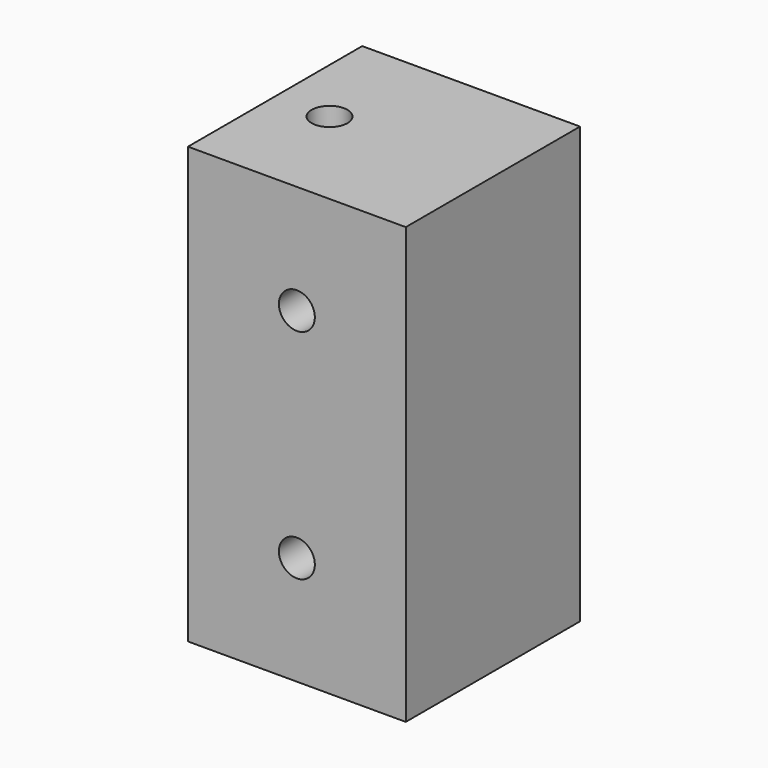
from build123d import *

# Parameters (mm, degrees)
SKETCH_W       = 20
SKETCH_H       = 20
PAD_DEPTH      = 40
SKETCH001_R    = 1.65
HOLE_DEPTH     = 10
HOLE_TIPS_R    = 1.65
SKETCH002_R    = 1.65
HOLE001_DEPTH  = 12
HOLE001_TIPS_R = 1.65


with BuildPart() as part:
    # Sketch → Pad (new body)
    with BuildSketch(Plane.XY):
        with Locations((75, 10)):
            Rectangle(SKETCH_W, SKETCH_H)
    extrude(amount=PAD_DEPTH)

    # Sketch001 (on Face1 of Pad) → Hole (cut)
    with BuildSketch(Plane.XZ):
        with Locations((75, 30)):
            Circle(SKETCH001_R)
        with Locations((75, 10)):
            Circle(SKETCH001_R)
    extrude(amount=-HOLE_DEPTH, mode=Mode.SUBTRACT)

    # Hole tips → Hole tip 1 section 0
    with BuildSketch(Plane.XZ.offset(-10), mode=Mode.PRIVATE) as hole_tip_1_s0:
        with Locations((75, 30)):
            Circle(HOLE_TIPS_R)
    loft([hole_tip_1_s0.sketch, Vertex(75, 10.99142, 30)], mode=Mode.SUBTRACT)

    # Hole tips → Hole tip 2 section 0
    with BuildSketch(Plane.XZ.offset(-10), mode=Mode.PRIVATE) as hole_tip_2_s0:
        with Locations((75, 10)):
            Circle(HOLE_TIPS_R)
    loft([hole_tip_2_s0.sketch, Vertex(75, 10.99142, 10)], mode=Mode.SUBTRACT)

    # Sketch002 (on Face4 of Hole) → Hole001 (cut)
    with BuildSketch(Plane.XY.offset(40)):
        with Locations((70, 10)):
            Circle(SKETCH002_R)
    extrude(amount=-HOLE001_DEPTH, mode=Mode.SUBTRACT)

    # Hole001 tips → Hole001 tip 1 section 0
    with BuildSketch(Plane.XY.offset(28), mode=Mode.PRIVATE) as hole001_tip_1_s0:
        with Locations((70, 10)):
            Circle(HOLE001_TIPS_R)
    loft([hole001_tip_1_s0.sketch, Vertex(70, 10, 27.00858)], mode=Mode.SUBTRACT)


solid = part.part
